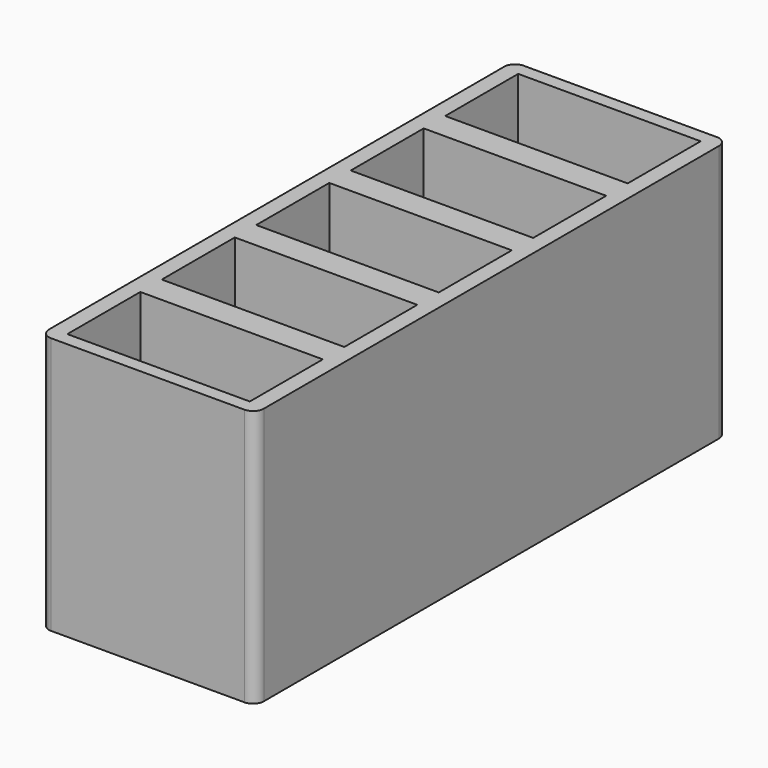
from build123d import *

# Parameters (mm, degrees)
F0_W     = 34
F0_H     = 3.5
F1_DEPTH = 5
F2_R     = 0.5
F3_DEPTH = 48


with BuildPart() as f1:
    # F0 (on Top) → F1 (new body)
    with BuildSketch(Plane.XY):
        with BuildLine():
            ThreePointArc((0, 2), (0.585786, 0.585786), (2, 0))
            Line((2, 0), (38, 0))
            ThreePointArc((38, 0), (39.414214, 0.585786), (40, 2))
            Line((40, 2), (40, 108))
            ThreePointArc((40, 108), (39.414214, 109.414214), (38, 110))
            Line((38, 110), (2, 110))
            ThreePointArc((2, 110), (0.585786, 109.414214), (0, 108))
            Line((0, 108), (0, 2))
        make_face()
        Polygon((37, 2.5), (3, 2.5), (3, 6), (3, 16), (3, 19.5), (37, 19.5), (37, 16), (37, 6), align=None, mode=Mode.SUBTRACT)
        Polygon((3, 38), (3, 41.5), (37, 41.5), (37, 38), (37, 28), (37, 24.5), (3, 24.5), (3, 28), align=None, mode=Mode.SUBTRACT)
        Polygon((3, 60), (3, 63.5), (37, 63.5), (37, 60), (37, 50), (37, 46.5), (3, 46.5), (3, 50), align=None, mode=Mode.SUBTRACT)
        Polygon((3, 82), (3, 85.5), (37, 85.5), (37, 82), (37, 72), (37, 68.5), (3, 68.5), (3, 72), align=None, mode=Mode.SUBTRACT)
        Polygon((3, 104), (3, 107.5), (37, 107.5), (37, 104), (37, 94), (37, 90.5), (3, 90.5), (3, 94), align=None, mode=Mode.SUBTRACT)
        with Locations((20, 17.75)):
            Rectangle(F0_W, F0_H)
        with Locations((20, 39.75)):
            Rectangle(F0_W, F0_H)
        with Locations((20, 61.75)):
            Rectangle(F0_W, F0_H)
        with Locations((20, 83.75)):
            Rectangle(F0_W, F0_H)
        with Locations((20, 105.75)):
            Rectangle(F0_W, F0_H)
        with Locations((20, 92.25)):
            Rectangle(F0_W, F0_H)
        with Locations((20, 70.25)):
            Rectangle(F0_W, F0_H)
        with Locations((20, 48.25)):
            Rectangle(F0_W, F0_H)
        with Locations((20, 26.25)):
            Rectangle(F0_W, F0_H)
        with Locations((20, 4.25)):
            Rectangle(F0_W, F0_H)
    extrude(amount=F1_DEPTH)

    # F2
    f2_edges = [f1.edges().sort_by_distance(p)[0] for p in [
        (3, 28, 2.5),
        (3, 6, 2.5),
        (3, 50, 2.5),
        (3, 72, 2.5),
        (3, 94, 2.5),
        (3, 104, 2.5),
        (3, 82, 2.5),
        (3, 60, 2.5),
        (3, 38, 2.5),
        (3, 16, 2.5),
        (37, 104, 2.5),
        (37, 82, 2.5),
        (37, 60, 2.5),
        (37, 38, 2.5),
        (37, 16, 2.5),
        (37, 6, 2.5),
        (37, 28, 2.5),
        (37, 50, 2.5),
        (37, 72, 2.5),
        (37, 94, 2.5),
    ]]
    fillet(f2_edges, radius=F2_R)

    # F0 (on Top) → F3 (join)
    with BuildSketch(Plane.XY):
        with BuildLine():
            ThreePointArc((0, 2), (0.585786, 0.585786), (2, 0))
            Line((2, 0), (38, 0))
            ThreePointArc((38, 0), (39.414214, 0.585786), (40, 2))
            Line((40, 2), (40, 108))
            ThreePointArc((40, 108), (39.414214, 109.414214), (38, 110))
            Line((38, 110), (2, 110))
            ThreePointArc((2, 110), (0.585786, 109.414214), (0, 108))
            Line((0, 108), (0, 2))
        make_face()
        Polygon((37, 2.5), (3, 2.5), (3, 6), (3, 16), (3, 19.5), (37, 19.5), (37, 16), (37, 6), align=None, mode=Mode.SUBTRACT)
        Polygon((3, 38), (3, 41.5), (37, 41.5), (37, 38), (37, 28), (37, 24.5), (3, 24.5), (3, 28), align=None, mode=Mode.SUBTRACT)
        Polygon((3, 60), (3, 63.5), (37, 63.5), (37, 60), (37, 50), (37, 46.5), (3, 46.5), (3, 50), align=None, mode=Mode.SUBTRACT)
        Polygon((3, 82), (3, 85.5), (37, 85.5), (37, 82), (37, 72), (37, 68.5), (3, 68.5), (3, 72), align=None, mode=Mode.SUBTRACT)
        Polygon((3, 104), (3, 107.5), (37, 107.5), (37, 104), (37, 94), (37, 90.5), (3, 90.5), (3, 94), align=None, mode=Mode.SUBTRACT)
    extrude(amount=F3_DEPTH)


solid = f1.part
